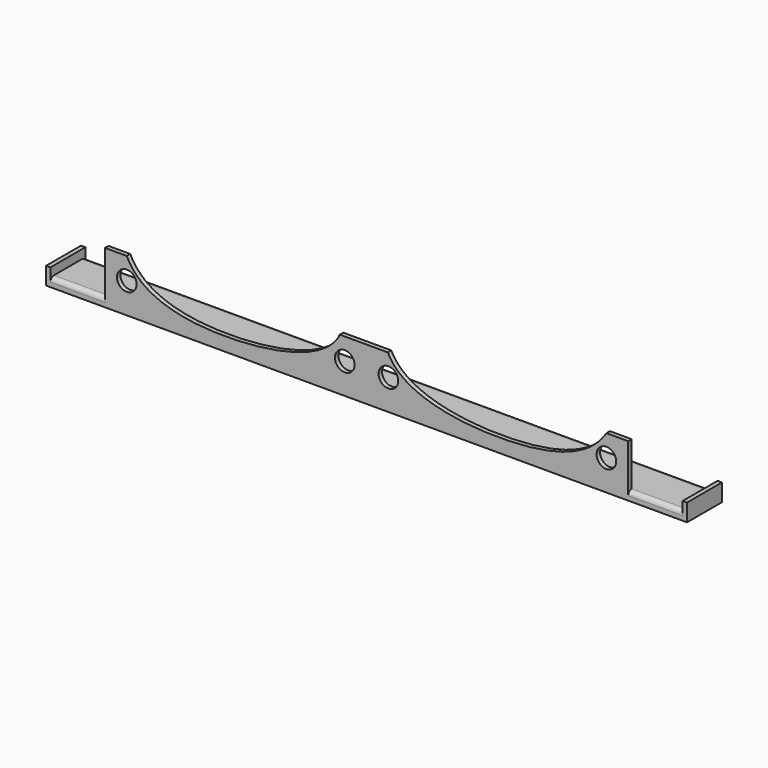
from build123d import *

# Parameters (mm, degrees)
F1_DEPTH = 1
F0_W     = 120
F0_H     = 2
F2_DEPTH = 10
F3_D     = 4.5
F3_DEPTH = 2
F3_TIP   = 1.3519363928
F5_DEPTH = 13.5
F7_DEPTH = 13.5
F8_W     = 1
F8_H     = 10
F9_DEPTH = 2
F10_R    = 1


with BuildPart() as f1:
    # F0 (on Front) → F1 (new body)
    with BuildSketch(Plane.XZ):
        with BuildLine():
            Line((-60, 10), (-60, 0))
            Line((-60, 0), (60, 0))
            Line((60, 0), (60, 10))
            Line((60, 10), (55, 10))
            add(Edge.make_bspline(
                [(4.8726298846, 10), (8.1773018464, 3.085560631), (32.161216462, -1.0187632381), (50.9468838573, 3.4464653581), (55, 10)],
                knots=[0, 0, 0, 0, 0.5132056899, 1, 1, 1, 1], degree=3))
            Line((4.8726298846, 10), (-6.1437510885, 10))
            add(Edge.make_bspline(
                [(-55, 10), (-51.9492179155, 3.6175639834), (-34.2229071391, -1.2678204247), (-9.1991592199, 3.3849673346), (-6.1437510885, 10)],
                knots=[0, 0, 0, 0, 0.4730947214, 1, 1, 1, 1], degree=3))
            Line((-55, 10), (-60, 10))
        make_face()
    extrude(amount=-F1_DEPTH)

    # F0 (on Front) → F2 (join)
    with BuildSketch(Plane.XZ):
        with Locations((0, -1)):
            Rectangle(F0_W, F0_H)
    extrude(amount=-F2_DEPTH)

    # F3
    with Locations(Plane.XZ):
        with Locations((-55, 5), (-5, 5), (5, 5), (55, 5)):
            Hole(F3_D / 2, depth=F3_DEPTH)
            with Locations((0, 0, -(F3_DEPTH + F3_TIP / 2))):  # 118° drill point
                Cone(0, F3_D / 2, F3_TIP, mode=Mode.SUBTRACT)

    # F4 (on face) → F5 (join)
    with BuildSketch(Plane(origin=(-60, 0, 0), x_dir=(0, -1, 0), z_dir=(-1, 0, 0))):
        Polygon((-1, 0), (-10, 0), (-10, -2), (0, -2), (0, 0), align=None)
    extrude(amount=F5_DEPTH)

    # F6 (on face) → F7 (join)
    with BuildSketch(Plane.YZ.offset(60)):
        Polygon((0, 0), (0, -2), (10, -2), (10, 0), (1, 0), align=None)
    extrude(amount=F7_DEPTH)

    # F8 (on face) → F9 (join)
    with BuildSketch(Plane.XY):
        with Locations((-73, 5)):
            Rectangle(F8_W, F8_H)
        with Locations((73, 5)):
            Rectangle(F8_W, F8_H)
    extrude(amount=F9_DEPTH)

    # F10
    f10_edges = [f1.edges().sort_by_distance(p)[0] for p in [
        (0, 10, 0),
        (-66.25, 0, 0),
        (66.25, 0, 0),
    ]]
    fillet(f10_edges, radius=F10_R)


solid = f1.part
